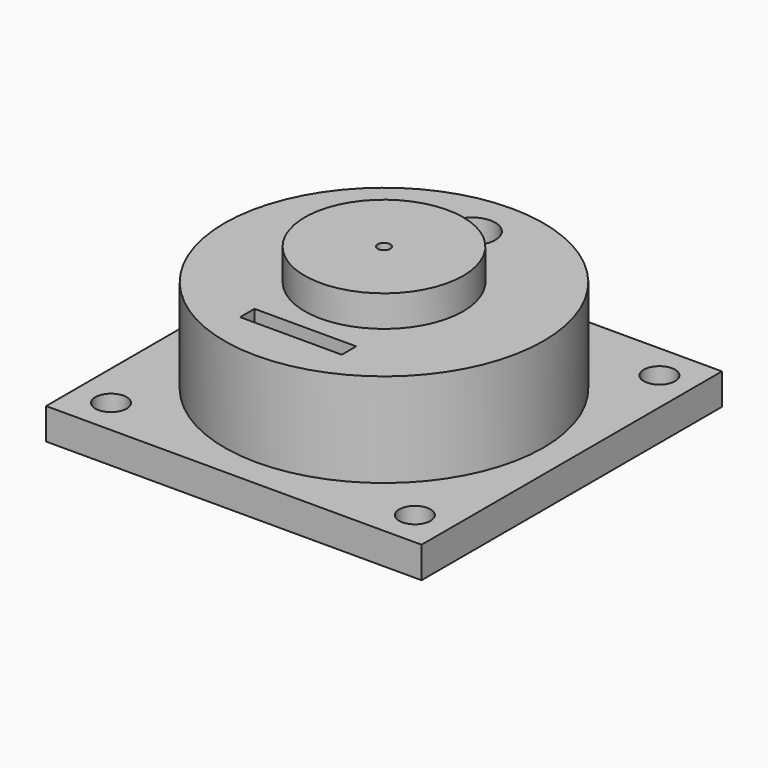
from build123d import *

# Parameters (mm, degrees)
F0_W      = 76.2
F0_H      = 76.2
F0_R      = 3.175
F5_DEPTH  = 6.35
F1_R      = 13.7737792641
F6_DEPTH  = 25.4
F3_R      = 5.199817611
F7_DEPTH  = 25.4
F4_W      = 20.6375
F4_H      = 3.6285714286
F8_DEPTH  = 25.4
F2_R      = 32.3782922644
F2_W      = 20.6375
F2_H      = 3.6632169593
F9_DEPTH  = 25.4
F10_D     = 9.525
F11_R     = 16.0757593031
F11_R_2   = 13.7737792641
F11_R_3   = 1.27
F12_DEPTH = 6.35
F13_DEPTH = 29.21
F14_W     = 8.89
F14_H     = 8.3891552745
F15_DEPTH = 21.59


with BuildPart() as f5:
    # F0 (on Top) → F5 (new body)
    with BuildSketch(Plane.XY):
        Rectangle(F0_W, F0_H)
        with Locations((-30.7339914143, -30.8254174888)):
            Circle(F0_R, mode=Mode.SUBTRACT)
        with Locations((30.9182778001, -30.8254174888)):
            Circle(F0_R, mode=Mode.SUBTRACT)
        with Locations((-30.8268517256, 30.8268517256)):
            Circle(F0_R, mode=Mode.SUBTRACT)
        with Locations((31.2360748649, 30.8268517256)):
            Circle(F0_R, mode=Mode.SUBTRACT)
    extrude(amount=F5_DEPTH)

    # F1 (on face) → F6 (cut)
    with BuildSketch(Plane.XY):
        Circle(F1_R)
    extrude(amount=F6_DEPTH, mode=Mode.SUBTRACT)

    # F3 (on face) → F7 (cut)
    with BuildSketch(Plane.XY):
        with Locations((0, 22.2998782992)):
            Circle(F3_R)
    extrude(amount=F7_DEPTH, mode=Mode.SUBTRACT)

    # F4 (on face) → F8 (cut)
    with BuildSketch(Plane.XY):
        with Locations((0, -21.663627077)):
            Rectangle(F4_W, F4_H)
    extrude(amount=F8_DEPTH, mode=Mode.SUBTRACT)

    # F2 (on face) → F9 (join)
    with BuildSketch(Plane.XY):
        Circle(F2_R)
        with Locations((0.0286572114, -21.8153223838)):
            Rectangle(F2_W, F2_H, mode=Mode.SUBTRACT)
    extrude(amount=F9_DEPTH)

    # F10 (through all)
    with Locations(Plane(origin=(0, 0, 0), x_dir=(1, 0, 0), z_dir=(0, 0, -1))):
        with Locations((0, -22.2998782992)):
            Hole(F10_D / 2)

    # F11 (on face) → F12 (join)
    with BuildSketch(Plane.XY.offset(25.4)):
        Circle(F11_R)
        Circle(F11_R_2, mode=Mode.SUBTRACT)
        Circle(F11_R_2)
        Circle(F11_R_3, mode=Mode.SUBTRACT)
    extrude(amount=F12_DEPTH)

    # F1 (on face) → F13 (cut)
    with BuildSketch(Plane.XY):
        Circle(F1_R)
    extrude(amount=F13_DEPTH, mode=Mode.SUBTRACT)

    # F14 (on face) → F15 (cut)
    with BuildSketch(Plane.XY):
        with Locations((0, -16.7856216431)):
            Rectangle(F14_W, F14_H)
    extrude(amount=F15_DEPTH, mode=Mode.SUBTRACT)


solid = f5.part
